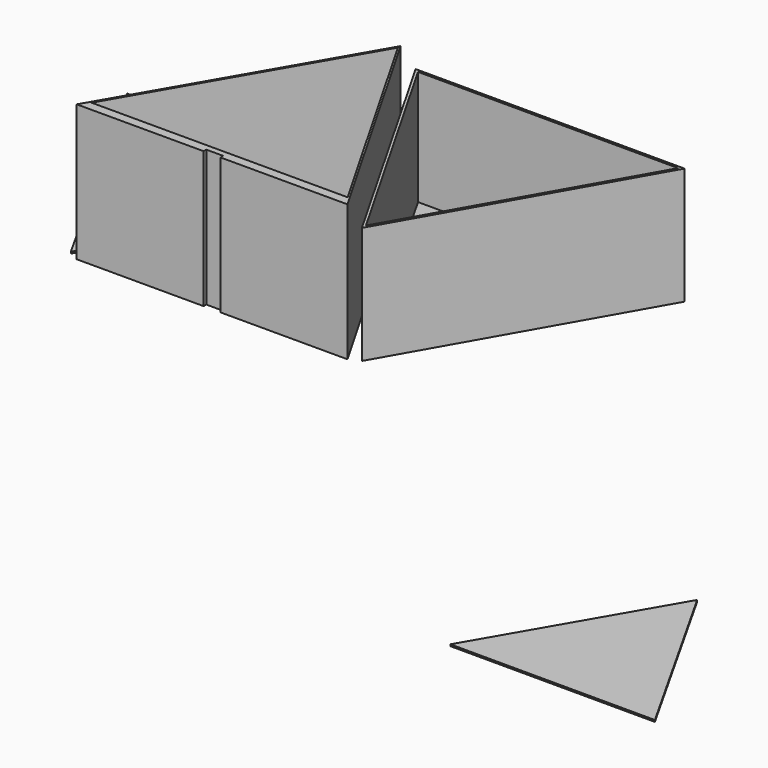
from build123d import *

# Parameters (mm, degrees)
F1_DEPTH  = 1
F2_DEPTH  = 1
F4_DEPTH  = 79.217
F5_DEPTH  = 79.217
F6_W      = 10
F6_H      = 80.217
F8_DEPTH  = 2
F9_DEPTH  = 1
F10_DEPTH = 1.5
F12_DEPTH = 67.4


with BuildPart() as f1:
    # F0 (on Top) → F1 (new body)
    with BuildSketch(Plane.XY):
        Polygon((-46.323508, 8.778512), (-125.5624761892, 146.9173285666), (-205.503509, 8.778512), align=None)
    extrude(amount=F1_DEPTH)

    # F3 (on face) → F4 (join)
    with BuildSketch(Plane.XY.offset(1)):
        Polygon((-125.5624761892, 146.9173285666), (-204.9248082785, 9.778512), (-205.503509, 8.778512), (-46.323508, 8.778512), align=None)
        Polygon((-48.0499655476, 9.778512), (-203.8023620844, 9.778512), (-201.1753511319, 14.3160996094), (-125.5662977814, 144.9142241888), (-50.6528093331, 14.3160996094), align=None, mode=Mode.SUBTRACT)
    extrude(amount=F4_DEPTH)

    # F3 (on face) → F5 (join)
    with BuildSketch(Plane.XY.offset(1)):
        Polygon((-201.1753511319, 14.3160996094), (-203.8023620844, 9.778512), (-48.0499655476, 9.778512), (-50.6528093331, 14.3160996094), align=None)
    extrude(amount=F5_DEPTH)

    # F6 (on face) → F8 (cut)
    with BuildSketch(Plane.XZ.offset(-8.778512)):
        with Locations((-125.9135085, 40.1085)):
            Rectangle(F6_W, F6_H)
    extrude(amount=-F8_DEPTH, mode=Mode.SUBTRACT)


with BuildPart() as f2:
    # F0 (on Top) → F2 (new body)
    with BuildSketch(Plane.XY):
        Polygon((168.8516275419, -184.4846511391), (289.193502, -184.630483), (229.773485, -79.250503), align=None)
    extrude(amount=F2_DEPTH)


with BuildPart() as f9:
    # F0 (on Top) → F9 (new body)
    with BuildSketch(Plane.XY):
        Polygon((-211.116485, 11.458495), (-130.7417321458, 150.3568539684), (-289.200497, 150.496498), align=None)
    extrude(amount=F9_DEPTH)


with BuildPart() as f10:
    # F0 (on Top) → F10 (new body)
    with BuildSketch(Plane.XY):
        Polygon((38.737493, 150.207498), (-119.4571138272, 150.3469092386), (-40.080499, 11.571494), align=None)
    extrude(amount=F10_DEPTH)

    # F11 (on face) → F12 (join)
    with BuildSketch(Plane.XY.offset(1.5)):
        Polygon((-119.4571138272, 150.3469092386), (-40.080499, 11.571494), (38.737493, 150.207498), align=None)
        Polygon((-116.8698045165, 148.8446285532), (36.1605270215, 148.7097684053), (-40.0844454768, 14.5995475784), align=None, mode=Mode.SUBTRACT)
    extrude(amount=F12_DEPTH)


solid = Compound([f1.part, f2.part, f9.part, f10.part])
